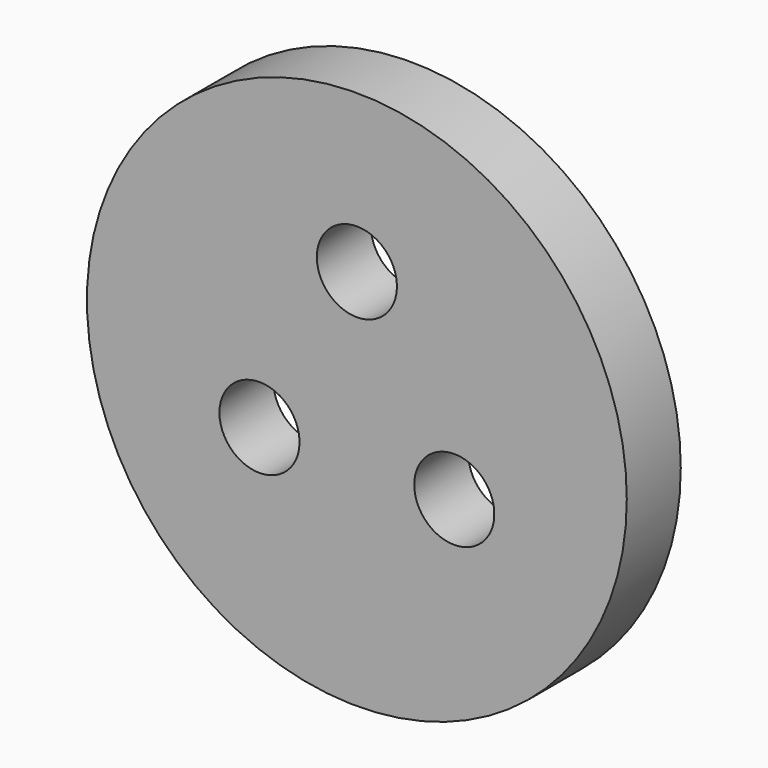
from build123d import *

# Parameters (mm, degrees)
F0_R     = 7.62
F1_DEPTH = 1.905
F3_D     = 2.2606
F3_DEPTH = 13.5128
F3_TIP   = 0.6791527577


with BuildPart() as f1:
    # F0 (on Front) → F1 (new body)
    with BuildSketch(Plane.XZ):
        Circle(F0_R)
    extrude(amount=F1_DEPTH)

    # F3
    with Locations(Plane.XZ.offset(1.905)):
        with Locations((0, 3.175), (2.749630657, -1.5875), (-2.749630657, -1.5875)):
            Hole(F3_D / 2, depth=F3_DEPTH)
            with Locations((0, 0, -(F3_DEPTH + F3_TIP / 2))):  # 118° drill point
                Cone(0, F3_D / 2, F3_TIP, mode=Mode.SUBTRACT)


solid = f1.part
